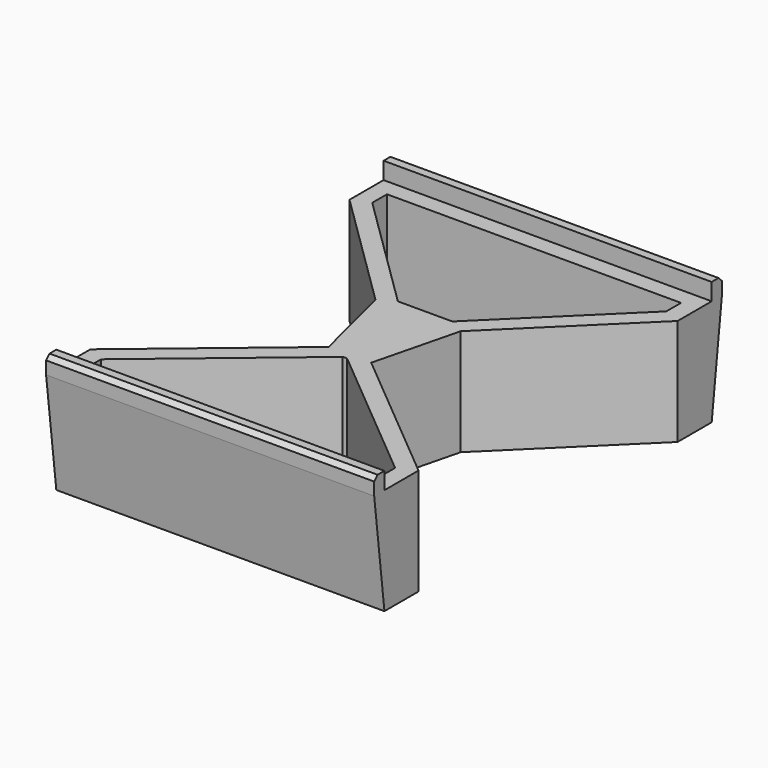
from build123d import *

# Parameters (mm, degrees)
F1_DEPTH   = 25
F2_DEPTH   = 10
F0_W       = 77
F0_H       = 3
F3_DEPTH   = 29
F4_SIZE2   = 3
F4_SIZE    = 25
F4_2_SIZE2 = 3
F4_2_SIZE  = 25
F5_SIZE    = 1


with BuildPart() as f1:
    # F0 (on Top) → F1 (new body)
    with BuildSketch(Plane.XY):
        Polygon((-38.5, -38), (-38.5, -48), (38.5, -48), (38.5, -38), (5, -10), (0.4688645929, -11.4259910617), (34.5, -39.8699251333), (34.5, -44), (-34.5, -44), (-34.5, -39.8699251333), (-0.5114898408, -11.4616181345), (-5, -10), align=None)
        Polygon((-10, 10), (-5, -10), (-0.5114898408, -11.4616181345), (0.4688645929, -11.4259910617), (5, -10), (10, 10), (6.3927714964, 12.0635084879), (-6.3927714964, 12.0635084879), align=None)
        Polygon((5.520849137, 8.1635084879), (1.7461076086, -6.9354576256), (-0.0650228365, -7.5054374638), (-1.7399680433, -6.9600158871), (-5.520849137, 8.1635084879), align=None, mode=Mode.SUBTRACT)
        Polygon((-38.5, 38), (-10, 10), (-6.3927714964, 12.0635084879), (-34.5, 39.6776277196), (-34.5, 44), (34.5, 44), (34.5, 39.6776277196), (6.3927714964, 12.0635084879), (10, 10), (38.5, 38), (38.5, 48), (-38.5, 48), align=None)
        Polygon((-0.0650228365, -7.5054374638), (1.7461076086, -6.9354576256), (5.520849137, 8.1635084879), (-5.520849137, 8.1635084879), (-1.7399680433, -6.9600158871), align=None)
    extrude(amount=F1_DEPTH)

    # F0 (on Top) → F2 (cut)
    with BuildSketch(Plane.XY):
        Polygon((-0.0650228365, -7.5054374638), (1.7461076086, -6.9354576256), (5.520849137, 8.1635084879), (-5.520849137, 8.1635084879), (-1.7399680433, -6.9600158871), align=None)
    extrude(amount=F2_DEPTH, mode=Mode.SUBTRACT)

    # F0 (on Top) → F3 (join)
    with BuildSketch(Plane.XY):
        with Locations((0, -49.5)):
            Rectangle(F0_W, F0_H)
        with Locations((0, 49.5)):
            Rectangle(F0_W, F0_H)
    extrude(amount=F3_DEPTH)

    # F4
    f4_edges = [f1.edges().sort_by_distance(p)[0] for p in [
        (0, -51, 0),
    ]]
    f4_side = f1.faces().sort_by_distance((0, -51, 14.5))[0]
    chamfer(f4_edges, length=F4_SIZE, length2=F4_SIZE2, reference=f4_side)

    # F4#2
    f4_2_edges = [f1.edges().sort_by_distance(p)[0] for p in [
        (0, 51, 0),
    ]]
    f4_2_side = f1.faces().sort_by_distance((0, 51, 14.5))[0]
    chamfer(f4_2_edges, length=F4_2_SIZE, length2=F4_2_SIZE2, reference=f4_2_side)

    # F5
    f5_edges = [f1.edges().sort_by_distance(p)[0] for p in [
        (0, -51, 29),
        (0, 51, 29),
    ]]
    chamfer(f5_edges, length=F5_SIZE)


solid = f1.part
